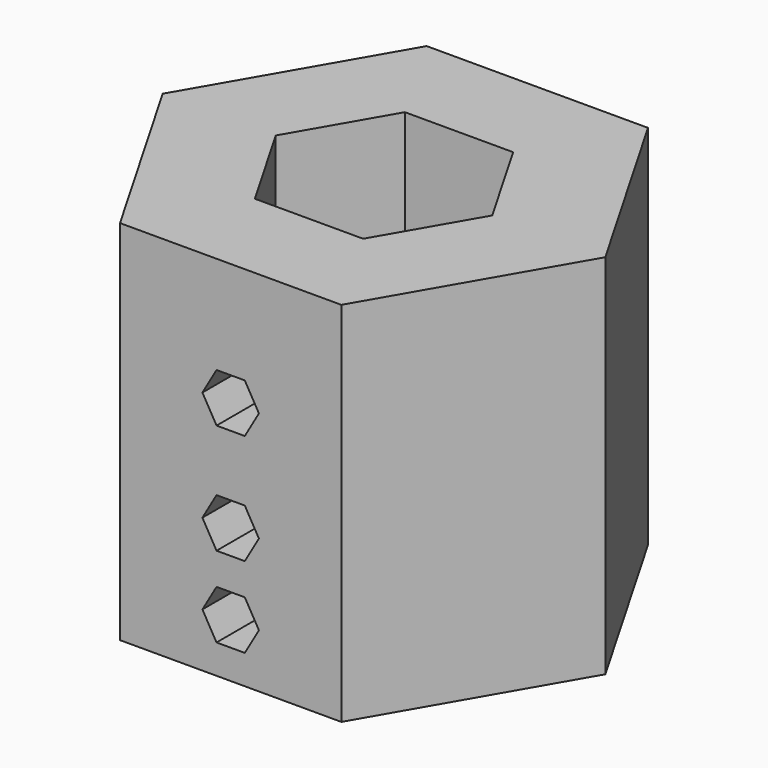
from build123d import *

# Parameters (mm, degrees)
F1_DEPTH = 19.05
F3_DEPTH = 19.8892


with BuildPart() as f1:
    # F0 (on Top) → F1 (new body)
    with BuildSketch(Plane.XY):
        Polygon((5.741229, 9.9441), (-5.741229, 9.9441), (-11.482458, 0), (-5.741229, -9.9441), (5.741229, -9.9441), (11.482458, 0), align=None)
        Polygon((-5.616579, 0), (-2.808289, 4.8641), (2.808289, 4.8641), (5.616579, 0), (2.808289, -4.8641), (-2.808289, -4.8641), align=None, mode=Mode.SUBTRACT)
    extrude(amount=F1_DEPTH)

    # F2 (on face) → F3 (cut, through all)
    with BuildSketch(Plane.XZ.offset(9.9441)):
        Polygon((0.733235, 13.97), (-0.733235, 13.97), (-1.46647, 12.7), (-0.733235, 11.43), (0.733235, 11.43), (1.46647, 12.7), align=None)
        Polygon((0.733235, 8.255), (-0.733235, 8.255), (-1.46647, 6.985), (-0.733235, 5.715), (0.733235, 5.715), (1.46647, 6.985), align=None)
        Polygon((0.733235, 4.064), (-0.733235, 4.064), (-1.46647, 2.794), (-0.733235, 1.524), (0.733235, 1.524), (1.46647, 2.794), align=None)
    extrude(amount=-F3_DEPTH, mode=Mode.SUBTRACT)


solid = f1.part
